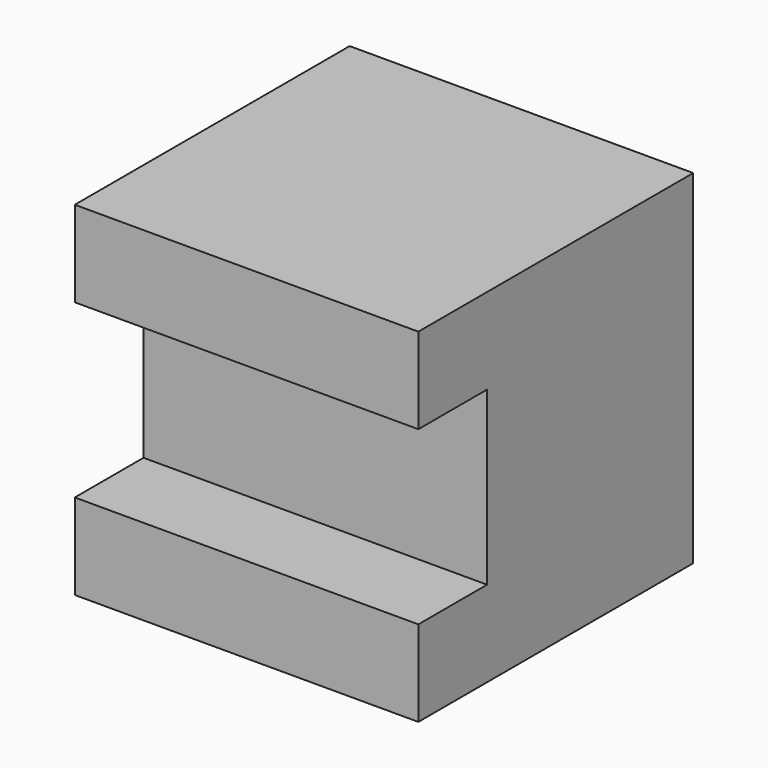
from build123d import *

# Parameters (mm, degrees)
F1_DEPTH = 25.4


with BuildPart() as f1:
    # F0 (on Right) → F1 (new body)
    with BuildSketch(Plane.YZ):
        Polygon((25.4, 0), (0, 0), (0, -2.695372), (0, -6.35), (6.35, -6.35), (6.35, -19.05), (0, -19.05), (0, -25.4), (25.4, -25.4), align=None)
    extrude(amount=F1_DEPTH)


solid = f1.part
